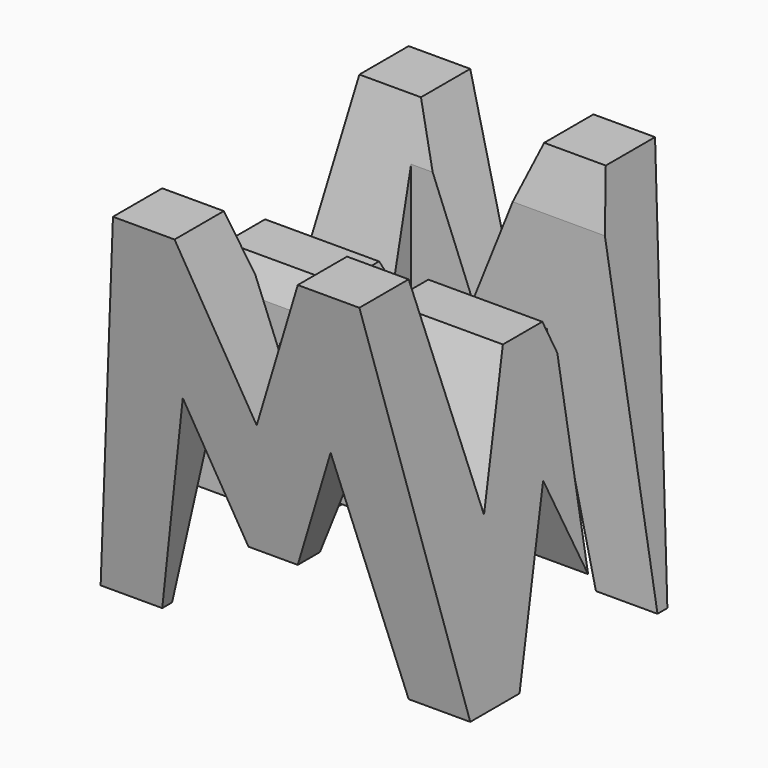
from build123d import *

# Parameters (mm, degrees)
F0_W      = 38.1
F0_H      = 38.1
F1_DEPTH  = 38.1
F6_DEPTH  = 38.1
F8_DEPTH  = 76.2
F9_W      = 25.4
F9_H      = 7.62
F10_DEPTH = 38.1


with BuildPart() as f1:
    # F0 (on Front) → F1 (new body)
    with BuildSketch(Plane.XZ):
        with Locations((19.05, 19.05)):
            Rectangle(F0_W, F0_H)
    extrude(amount=-F1_DEPTH)

    # F5 (on offset) → F6 (cut)
    with BuildSketch(Plane.YZ.offset(38.1)):
        Polygon((31.75, 38.1), (6.35, 38.1), (11.43, 15.875), (16.51, 28.575), (21.59, 28.575), (26.67, 15.875), align=None)
        Polygon((0, 38.1), (0, 0), (6.35, 0), align=None)
        Polygon((19.05, 15.875), (12.7, 0), (25.4, 0), align=None)
        Polygon((38.1, 0), (38.1, 38.1), (31.75, 0), align=None)
    extrude(amount=-F6_DEPTH, mode=Mode.SUBTRACT)

    # F7 (on offset) → F8 (cut)
    with BuildSketch(Plane.XZ.offset(38.1)):
        Polygon((0, 38.1), (0, 0), (6.35, 38.1), align=None)
        Polygon((19.05, 22.225), (25.4, 38.1), (12.7, 38.1), align=None)
        Polygon((38.1, 0), (38.1, 38.1), (31.75, 38.1), align=None)
        Polygon((6.35, 0), (31.75, 0), (26.67, 22.225), (21.59, 9.525), (16.51, 9.525), (11.43, 22.225), align=None)
    extrude(amount=-F8_DEPTH, mode=Mode.SUBTRACT)

    # F9 (on offset) → F10 (cut)
    with BuildSketch(Plane.XY.offset(38.1)):
        with Locations((25.4, 26.67)):
            Rectangle(F9_W, F9_H)
        with Locations((12.7, 11.43)):
            Rectangle(F9_W, F9_H)
    extrude(amount=-F10_DEPTH, mode=Mode.SUBTRACT)


solid = f1.part
